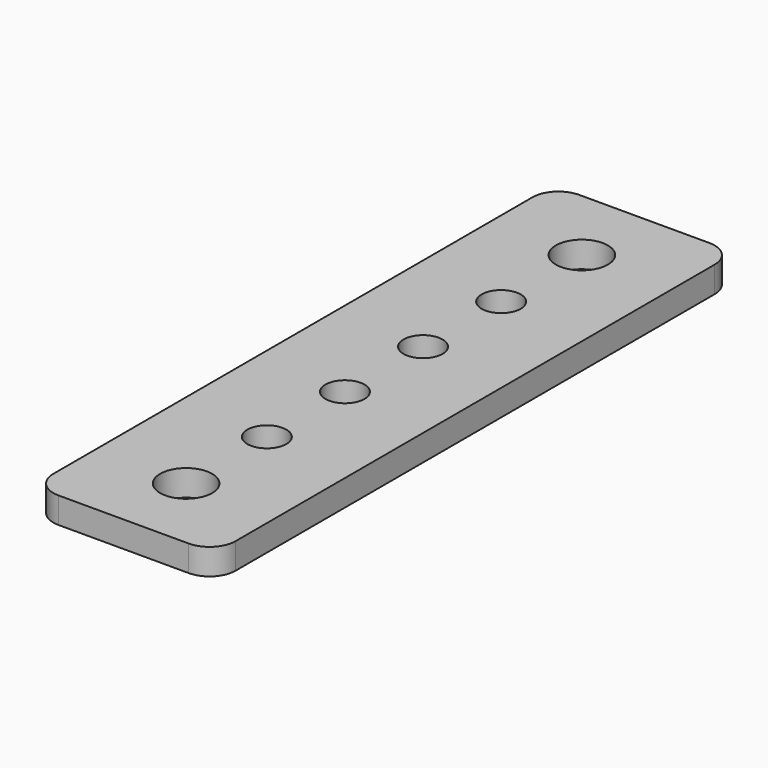
from build123d import *

# Parameters (mm, degrees)
F0_R     = 2
F0_R_2   = 1.5
F1_DEPTH = 2


with BuildPart() as f1:
    # F0 (on Top) → F1 (new body)
    with BuildSketch(Plane.XY):
        with BuildLine():
            ThreePointArc((7, 23), (6.414214, 24.414214), (5, 25))
            Line((5, 25), (-5, 25))
            ThreePointArc((-5, 25), (-6.414214, 24.414214), (-7, 23))
            Line((-7, 23), (-7, -23))
            ThreePointArc((-7, -23), (-6.414214, -24.414214), (-5, -25))
            Line((-5, -25), (5, -25))
            ThreePointArc((5, -25), (6.414214, -24.414214), (7, -23))
            Line((7, -23), (7, 23))
        make_face()
        with Locations((0, -19)):
            Circle(F0_R, mode=Mode.SUBTRACT)
        with Locations((0, -11.25)):
            Circle(F0_R_2, mode=Mode.SUBTRACT)
        with Locations((0, -3.75)):
            Circle(F0_R_2, mode=Mode.SUBTRACT)
        with Locations((0, 3.75)):
            Circle(F0_R_2, mode=Mode.SUBTRACT)
        with Locations((0, 11.25)):
            Circle(F0_R_2, mode=Mode.SUBTRACT)
        with Locations((0, 19)):
            Circle(F0_R, mode=Mode.SUBTRACT)
    extrude(amount=F1_DEPTH)


solid = f1.part
